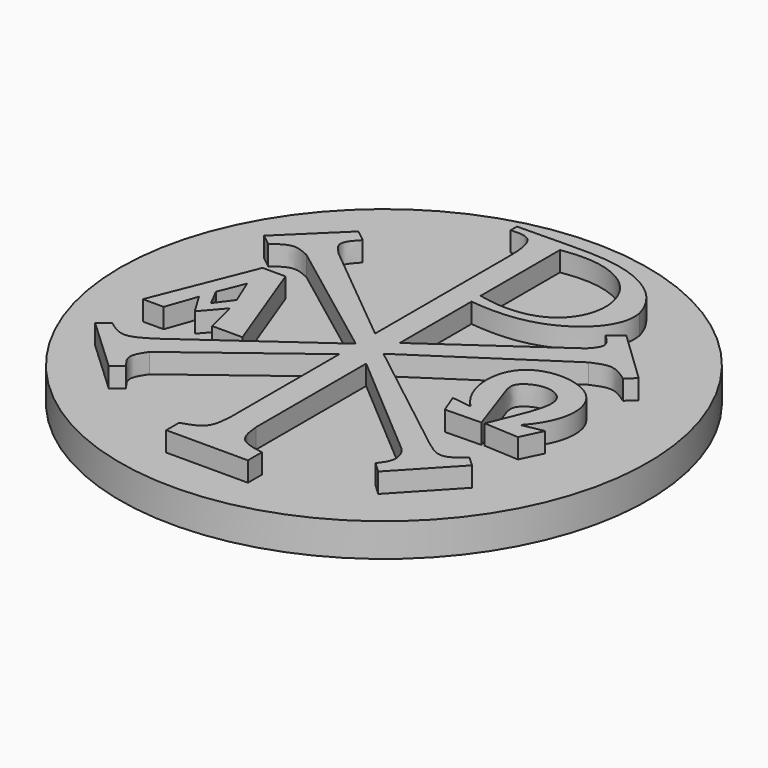
from build123d import *

# Parameters (mm, degrees)
F3_DEPTH = 0.8


with BuildPart() as f1:
    # F0 (on Front) → F1 (revolve)
    with BuildSketch(Plane.XZ):
        Polygon((0, 1.8), (-10.7, 1.8), (-10.7, 0.4530665231), (-9.0727129846, 0), (0, 0), align=None)
    revolve(axis=Axis((0, 0, 1.1966938619), (0, 0, -1)))

    # F2 (on face) → F3 (join)
    with BuildSketch(Plane.XY.offset(1.8)):
        with BuildLine():
            add(Edge.make_bspline(
                [(-1.6867941013, 8.8509330526), (0.8566841716, 8.8753895834), (2.649315499, 9.0611870259), (4.7208145261, 7.7993022278), (5.050977692, 6.6498457454)],
                knots=[0, 0, 0, 0, 0.5589307471, 1, 1, 1, 1], degree=3))
            Line((-1.6867941013, 8.8509330526), (-1.6867941013, 8.5329981521))
            add(Edge.make_bspline(
                [(-1.6867941013, 8.5329981521), (-1.3774677293, 8.5470557254), (-0.6938875858, 8.5771007031), (-0.6173685214, 7.6472761807), (-0.6112642586, 7.1267476305)],
                knots=[0, 0, 0, 0, 0.441787592, 1, 1, 1, 1], degree=3))
            Line((-0.6112642586, 7.1267476305), (-0.6112642586, 0.3177910403))
            Line((-0.6112642586, 0.3177910403), (-4.9199624918, 3.8612245116))
            add(Edge.make_bspline(
                [(-4.9199624918, 3.8612245116), (-5.1154879855, 4.0527227146), (-5.5120993261, 4.4411649455), (-5.1191776451, 4.8610289061), (-4.9199624918, 5.0739040598)],
                knots=[0, 0, 0, 0, 0.4929901738, 1, 1, 1, 1], degree=3))
            Line((-4.9199624918, 5.0739040598), (-5.3968969733, 5.457715597))
            Line((-5.3968969733, 5.457715597), (-7.5489841402, 3.3604586497))
            Line((-7.5489841402, 3.3604586497), (-7.0966347121, 3.000701312))
            add(Edge.make_bspline(
                [(-7.0966347121, 3.000701312), (-6.8613198471, 3.1750743352), (-6.4010215426, 3.5161645889), (-5.9145178984, 3.2846312905), (-5.6767258793, 3.1714630313)],
                knots=[0, 0, 0, 0, 0.5112225325, 1, 1, 1, 1], degree=3))
            Line((-5.6767258793, 3.1714630313), (-0.6559019093, -0.6086938665))
            Line((-0.6559019093, -0.6086938665), (-5.8705802076, -4.3306946754))
            add(Edge.make_bspline(
                [(-5.8705802076, -4.3306946754), (-6.1822484494, -4.5196679636), (-6.7864429099, -4.8860081888), (-7.308925656, -4.5013103723), (-7.5618904084, -4.3150554411)],
                knots=[0, 0, 0, 0, 0.5158409455, 1, 1, 1, 1], degree=3))
            Line((-7.5618904084, -4.3150554411), (-7.9826125875, -4.6550915577))
            Line((-7.9826125875, -4.6550915577), (-5.8098412119, -6.6837798804))
            Line((-5.8098412119, -6.6837798804), (-5.3775920533, -6.3379807398))
            add(Edge.make_bspline(
                [(-5.4053300992, -5.1254965365), (-5.5515290524, -5.3446676224), (-5.8379925252, -5.7741133125), (-5.5289246402, -6.1526388002), (-5.3775920533, -6.3379807398)],
                knots=[0, 0, 0, 0, 0.5103580985, 1, 1, 1, 1], degree=3))
            Line((-5.4053300992, -5.1254965365), (-0.6126278895, -1.4923192712))
            Line((-0.6126278895, -1.4923192712), (-0.6126278895, -7.048912812))
            add(Edge.make_bspline(
                [(-0.6126278895, -7.048912812), (-0.6389726569, -7.377813444), (-0.6916788554, -8.0358227462), (-1.3219282839, -8.234017122), (-1.637152629, -8.3331456408)],
                knots=[0, 0, 0, 0, 0.4998419184, 1, 1, 1, 1], degree=3))
            Line((-1.637152629, -8.3331456408), (-1.637152629, -8.9842546731))
            Line((-1.637152629, -8.9842546731), (1.6732236836, -8.9842546731))
            Line((1.6732236836, -8.9842546731), (1.6732236836, -8.2714613527))
            add(Edge.make_bspline(
                [(0.4535702465, -7.048912812), (0.4870410433, -7.3872676951), (0.5558033707, -8.0823831835), (1.2942327078, -8.2073324667), (1.6732236836, -8.2714613527)],
                knots=[0, 0, 0, 0, 0.4867606733, 1, 1, 1, 1], degree=3))
            Line((0.4535702465, -7.048912812), (0.4535702465, -1.4659117442))
            Line((0.4535702465, -1.4659117442), (4.8928316683, -5.2557615563))
            add(Edge.make_bspline(
                [(4.8928316683, -5.2557615563), (5.103411153, -5.4165492766), (5.3978362889, -6.0029897915), (5.1020476496, -6.4001318691), (4.9510909234, -6.6109133504)],
                knots=[0, 0, 0, 0, 0.5154207237, 1, 1, 1, 1], degree=3))
            Line((4.9510909234, -6.6109133504), (5.3739010935, -7.0078365295))
            Line((5.3739010935, -7.0078365295), (7.4263224378, -4.8215580173))
            Line((7.4263224378, -4.8215580173), (7.0269443095, -4.4466322288))
            add(Edge.make_bspline(
                [(5.4299915209, -4.4800881296), (5.7073067114, -4.6913712485), (6.2579025081, -5.1108635847), (6.7718523941, -4.6669584172), (7.0269443095, -4.4466322288)],
                knots=[0, 0, 0, 0, 0.5036638351, 1, 1, 1, 1], degree=3))
            Line((5.4299915209, -4.4800881296), (0.4608821182, -0.5992884981))
            Line((0.4608821182, -0.5992884981), (5.9025837108, 3.000701312))
            add(Edge.make_bspline(
                [(5.9025837108, 3.000701312), (6.1652393352, 3.1131659914), (6.6968427958, 3.3407895685), (7.1827875665, 2.993159634), (7.4286358431, 2.8172873426)],
                knots=[0, 0, 0, 0, 0.4940818558, 1, 1, 1, 1], degree=3))
            Line((7.4286358431, 2.8172873426), (7.8171929345, 3.1411375385))
            Line((7.8171929345, 3.1411375385), (5.6788134389, 5.183564499))
            Line((5.6788134389, 5.183564499), (5.1636509597, 4.7825793736))
            add(Edge.make_bspline(
                [(5.1636509597, 4.7825793736), (5.3563745653, 4.5959784132), (5.7323232052, 4.2319733033), (5.3994815796, 3.8708627719), (5.23726549, 3.6948693451)],
                knots=[0, 0, 0, 0, 0.5126328046, 1, 1, 1, 1], degree=3))
            Line((5.23726549, 3.6948693451), (0.4013032594, 0.3040304291))
            Line((0.4013032594, 0.3040304291), (0.4013032594, 3.9351717569))
            add(Edge.make_bspline(
                [(5.050977692, 6.6498457454), (5.2227766775, 5.7417653934), (3.8530424976, 4.1063453678), (1.8400062355, 3.7766705272), (0.4013032594, 3.9351717569)],
                knots=[0, 0, 0, 0, 0.4558296962, 1, 1, 1, 1], degree=3))
        make_face()
        with BuildLine():
            Line((0.3797819663, 4.424153241), (0.3797819663, 8.4475489607))
            add(Edge.make_bspline(
                [(0.3797819663, 8.4475489607), (2.7214622988, 8.8398724894), (5.0507446574, 6.4596899692), (2.9288335052, 3.8387254341), (0.3797819663, 4.424153241)],
                knots=[0, 0, 0, 0, 0.5012880833, 1, 1, 1, 1], degree=3))
        make_face(mode=Mode.SUBTRACT)
        Polygon((-6.2060756609, 1.6079591587), (-7.8247580677, -2.4339009542), (-6.9814925082, -2.4339009542), (-6.5453206189, -1.1932341149), (-6.0219140723, -2.0558852702), (-5.2755754441, -1.1932341149), (-4.9654087052, -2.5017498992), (-3.7344344892, -2.5017498992), (-5.2755754441, 1.6079591587), align=None)
        Polygon((-6.3382112782, -0.5918067245), (-5.9152944013, 0.4642193671), (-5.4694297723, -0.6213641609), (-5.9734508395, -1.2998539023), align=None, mode=Mode.SUBTRACT)
        with BuildLine():
            Line((4.3641445227, -2.3708629888), (5.8277440257, -2.3417847697))
            add(Edge.make_bspline(
                [(5.8277440257, -2.3417847697), (5.1487722105, -0.2610644891), (4.6605925288, 0.2992301122), (5.9169845073, 0.9749441024), (7.2274061463, 0.3335519894), (6.3030754531, -1.3617813756), (5.9440564364, -2.3223995231)],
                knots=[0, 0, 0, 0, 0.3215656024, 0.5011300693, 0.686712218, 1, 1, 1, 1], degree=3))
            Line((5.9440564364, -2.3223995231), (7.3494995013, -2.3999412078))
            Line((7.3494995013, -2.3999412078), (7.7662859112, -1.5372899361))
            Line((7.7662859112, -1.5372899361), (6.8939416669, -1.7020660453))
            add(Edge.make_bspline(
                [(4.8681655899, -1.6923733056), (3.9570508525, -0.8103366708), (3.8497648676, 1.987677069), (7.9298202319, 1.7446883295), (7.8729055822, -0.6455606199), (6.8939416669, -1.7020660453)],
                knots=[0, 0, 0, 0, 0.3420298118, 0.6610694697, 1, 1, 1, 1], degree=3))
            Line((4.8681655899, -1.6923733056), (4.0636705235, -1.5857535182))
            Line((4.0636705235, -1.5857535182), (4.3641445227, -2.3708629888))
        make_face()
    extrude(amount=F3_DEPTH)


solid = f1.part
